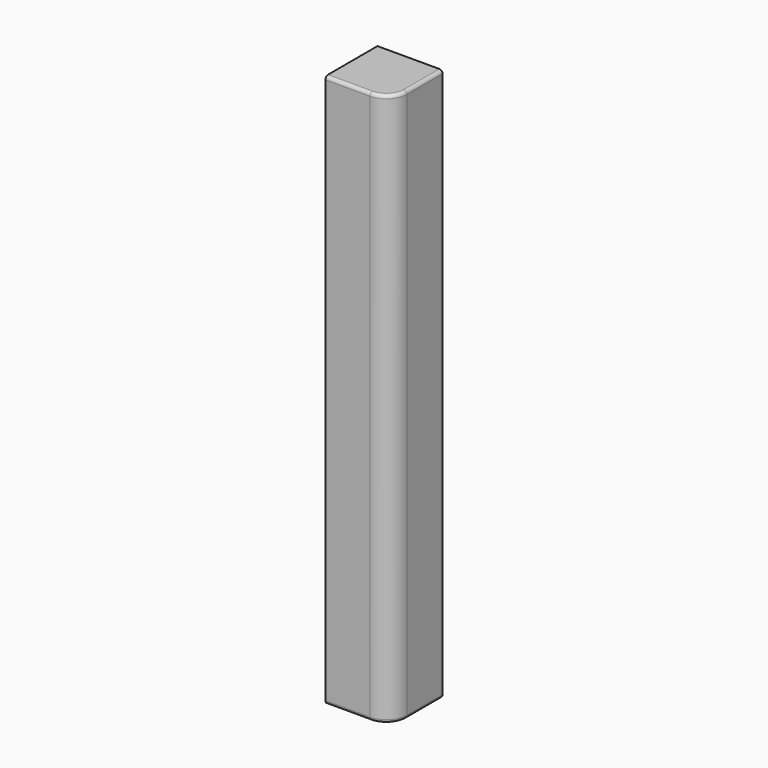
from build123d import *

# Parameters (mm, degrees)
SKETCH_W    = 20
SKETCH_H    = 20
PAD_DEPTH   = 170
FILLET_R    = 6.3
FILLET001_R = 1
FILLET002_R = 1


with BuildPart() as part:
    # Sketch → Pad (new body)
    with BuildSketch(Plane.XY):
        with Locations((-10, 10)):
            Rectangle(SKETCH_W, SKETCH_H)
    extrude(amount=PAD_DEPTH)

    # Fillet
    fillet_edges = [part.edges().sort_by_distance(p)[0] for p in [
        (0, 0, 85),
    ]]
    fillet(fillet_edges, radius=FILLET_R)

    # Fillet001
    fillet001_edges = [part.edges().sort_by_distance(p)[0] for p in [
        (0, 13.15, 170),
    ]]
    fillet(fillet001_edges, radius=FILLET001_R)

    # Fillet002
    fillet002_edges = [part.edges().sort_by_distance(p)[0] for p in [
        (-1.845227, 1.845227, 0),
    ]]
    fillet(fillet002_edges, radius=FILLET002_R)


solid = part.part
